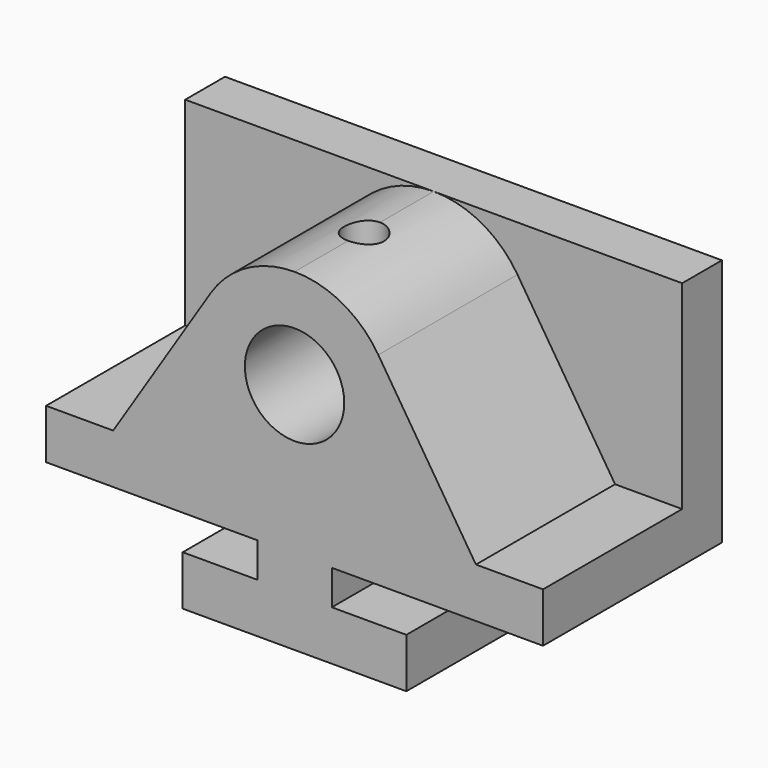
from build123d import *

# Parameters (mm, degrees)
F0_W     = 127
F0_H     = 85.09
F1_DEPTH = 28.575
F3_DEPTH = 57.151
F5_R     = 5.08
F6_DEPTH = 25.4
F4_R     = 12.7
F7_DEPTH = 44.45


with BuildPart() as f1:
    # F0 (on Front) → F1 (new body, symmetric)
    with BuildSketch(Plane.XZ):
        with Locations((63.5, 42.545)):
            Rectangle(F0_W, F0_H)
    extrude(amount=F1_DEPTH, both=True)

    # F2 (on face) → F3 (cut, through all)
    with BuildSketch(Plane.XZ.offset(28.575)):
        Polygon((0, 0), (34.925, 0), (34.925, 12.7), (53.975, 12.7), (53.975, 21.59), (0, 21.59), align=None)
        Polygon((92.075, 12.7), (92.075, 0), (127, 0), (127, 21.59), (73.025, 21.59), (73.025, 12.7), align=None)
    extrude(amount=-F3_DEPTH, mode=Mode.SUBTRACT)

    # F5 (on face) → F6 (cut)
    with BuildSketch(Plane.XY.offset(85.09)):
        with Locations((63.5, -6.35)):
            Circle(F5_R)
    extrude(amount=-F6_DEPTH, mode=Mode.SUBTRACT)

    # F4 (on face) → F7 (cut)
    with BuildSketch(Plane.XZ.offset(28.575)):
        with Locations((63.5, 59.69)):
            Circle(F4_R)
        with BuildLine():
            Line((0, 85.09), (0, 34.29))
            Line((0, 34.29), (17.145, 34.29))
            Line((17.145, 34.29), (42.092005, 73.359592))
            ThreePointArc((42.092005, 73.359592), (51.29442, 81.965184), (63.5, 85.09))
            Line((63.5, 85.09), (0, 85.09))
        make_face()
        with BuildLine():
            Line((127, 85.09), (63.5, 85.09))
            ThreePointArc((63.5, 85.09), (75.70558, 81.965184), (84.907995, 73.359592))
            Line((84.907995, 73.359592), (109.855, 34.29))
            Line((109.855, 34.29), (127, 34.29))
            Line((127, 34.29), (127, 85.09))
        make_face()
    extrude(amount=-F7_DEPTH, mode=Mode.SUBTRACT)


solid = f1.part
